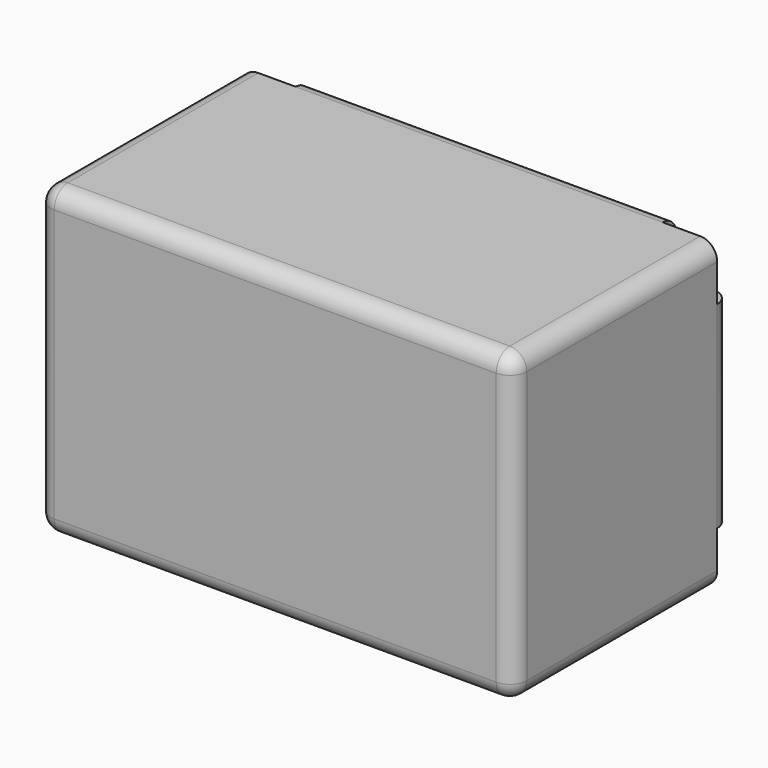
from build123d import *

# Parameters (mm, degrees)
F0_W     = 70
F0_H     = 45
F1_DEPTH = 20
F2_W     = 8
F2_H     = 8
F3_DEPTH = 2.5
F4_W     = 8
F4_H     = 8
F5_DEPTH = 2.5
F6_W     = 8
F6_H     = 8
F7_DEPTH = 2.5
F8_W     = 8
F8_H     = 8
F9_DEPTH = 2.5
F10_R    = 2.5
F11_R    = 3


with BuildPart() as f1:
    # F0 (on Front) → F1 (new body, symmetric)
    with BuildSketch(Plane.XZ):
        Rectangle(F0_W, F0_H)
    extrude(amount=F1_DEPTH, both=True)

    # F2 (on face) → F3 (cut, symmetric)
    with BuildSketch(Plane(origin=(0, 20, 0), x_dir=(-1, 0, 0), z_dir=(0, 1, 0))):
        with Locations((-31, -18.5)):
            Rectangle(F2_W, F2_H)
    extrude(amount=F3_DEPTH, both=True, mode=Mode.SUBTRACT)

    # F4 (on face) → F5 (cut, symmetric)
    with BuildSketch(Plane(origin=(0, 20, 0), x_dir=(-1, 0, 0), z_dir=(0, 1, 0))):
        with Locations((31, -18.5)):
            Rectangle(F4_W, F4_H)
    extrude(amount=F5_DEPTH, both=True, mode=Mode.SUBTRACT)

    # F6 (on face) → F7 (cut, symmetric)
    with BuildSketch(Plane(origin=(0, 20, 0), x_dir=(-1, 0, 0), z_dir=(0, 1, 0))):
        with Locations((-31, 18.5)):
            Rectangle(F6_W, F6_H)
    extrude(amount=F7_DEPTH, both=True, mode=Mode.SUBTRACT)

    # F8 (on face) → F9 (cut, symmetric)
    with BuildSketch(Plane(origin=(0, 20, 0), x_dir=(-1, 0, 0), z_dir=(0, 1, 0))):
        with Locations((31, 18.5)):
            Rectangle(F8_W, F8_H)
    extrude(amount=F9_DEPTH, both=True, mode=Mode.SUBTRACT)

    # F10
    f10_edges = [f1.edges().sort_by_distance(p)[0] for p in [
        (35, -1.25, -22.5),
        (35, -1.25, 22.5),
        (-35, -1.25, 22.5),
        (-35, -1.25, -22.5),
        (-35, -20, 0),
        (-35, 20, 0),
        (0, 20, 22.5),
        (35, 20, 0),
        (0, 20, -22.5),
        (0, -20, 22.5),
        (0, -20, -22.5),
        (35, -20, 0),
    ]]
    fillet(f10_edges, radius=F10_R)

    # F11
    f11_edges = [f1.edges().sort_by_distance(p)[0] for p in [
        (27, 18.75, 14.5),
        (27, 18.75, -14.5),
        (-27, 18.75, -14.5),
        (-27, 18.75, 14.5),
    ]]
    fillet(f11_edges, radius=F11_R)


solid = f1.part
